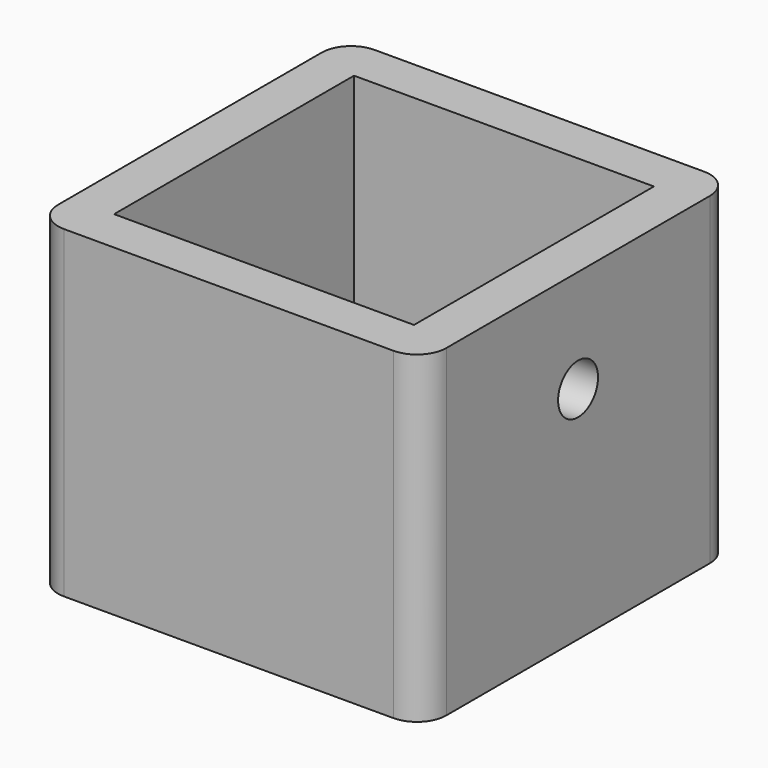
from build123d import *

# Parameters (mm, degrees)
BOX_W           = 26.4
BOX_H           = 26.4
BOX_DEPTH       = 22
SKETCH_W        = 20.4
SKETCH_H        = 20.4
POCKET_DEPTH    = 16
FILLET_R        = 2
SKETCH001_R     = 1.7
POCKET001_DEPTH = 5


with BuildPart() as part:
    # Box → Box (new body)
    with BuildSketch(Plane.XY):
        with Locations((13.2, 13.2)):
            Rectangle(BOX_W, BOX_H)
    extrude(amount=BOX_DEPTH)

    # Sketch → Pocket (cut)
    with BuildSketch(Plane.XY.offset(22)):
        with Locations((13.2, 13.2)):
            Rectangle(SKETCH_W, SKETCH_H)
    extrude(amount=-POCKET_DEPTH, mode=Mode.SUBTRACT)

    # Fillet
    fillet_edges = [part.edges().sort_by_distance(p)[0] for p in [
        (0, 26.4, 11),
        (26.4, 26.4, 11),
        (26.4, 0, 11),
        (0, 0, 11),
    ]]
    fillet(fillet_edges, radius=FILLET_R)

    # Sketch001 → Pocket001 (cut)
    with BuildSketch(Plane.YZ.offset(26.4)):
        with Locations((13.2, 15)):
            Circle(SKETCH001_R)
    extrude(amount=-POCKET001_DEPTH, mode=Mode.SUBTRACT)


solid = part.part
